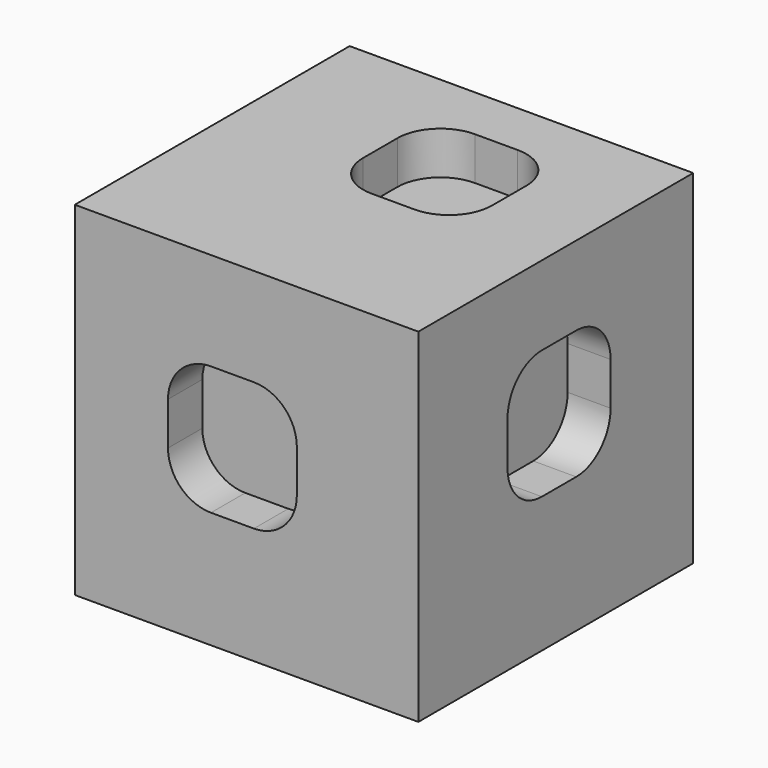
from build123d import *

# Parameters (mm, degrees)
F0_W     = 50.8
F0_H     = 50.8
F1_DEPTH = 50.8
F3_DEPTH = 6.35
F5_DEPTH = 6.35
F7_DEPTH = 6.35


with BuildPart() as f1:
    # F0 (on Top) → F1 (new body)
    with BuildSketch(Plane.XY):
        with Locations((25.4, 25.4)):
            Rectangle(F0_W, F0_H)
    extrude(amount=F1_DEPTH)

    # F2 (on face) → F3 (cut)
    with BuildSketch(Plane.XY.offset(50.8)):
        with BuildLine():
            ThreePointArc((18.691622, 29.928316), (20.551494, 25.438188), (25.041622, 23.578316))
            Line((25.041622, 23.578316), (31.391622, 23.578316))
            ThreePointArc((31.391622, 23.578316), (35.88175, 25.438188), (37.741622, 29.928316))
            Line((37.741622, 29.928316), (37.741622, 36.278316))
            ThreePointArc((37.741622, 36.278316), (35.88175, 40.768444), (31.391622, 42.628316))
            Line((31.391622, 42.628316), (25.041622, 42.628316))
            ThreePointArc((25.041622, 42.628316), (20.551494, 40.768444), (18.691622, 36.278316))
            Line((18.691622, 36.278316), (18.691622, 29.928316))
        make_face()
    extrude(amount=-F3_DEPTH, mode=Mode.SUBTRACT)

    # F4 (on face) → F5 (cut)
    with BuildSketch(Plane.XZ):
        with BuildLine():
            ThreePointArc((13.781983, 23.608483), (15.641855, 19.118355), (20.131983, 17.258483))
            Line((20.131983, 17.258483), (26.481983, 17.258483))
            ThreePointArc((26.481983, 17.258483), (30.972111, 19.118355), (32.831983, 23.608483))
            Line((32.831983, 23.608483), (32.831983, 29.958483))
            ThreePointArc((32.831983, 29.958483), (30.972111, 34.448611), (26.481983, 36.308483))
            Line((26.481983, 36.308483), (20.131983, 36.308483))
            ThreePointArc((20.131983, 36.308483), (15.641855, 34.448611), (13.781983, 29.958483))
            Line((13.781983, 29.958483), (13.781983, 23.608483))
        make_face()
    extrude(amount=-F5_DEPTH, mode=Mode.SUBTRACT)

    # F6 (on face) → F7 (cut)
    with BuildSketch(Plane.YZ.offset(50.8)):
        with BuildLine():
            Line((22.827603, 20.040363), (29.177603, 20.040363))
            ThreePointArc((29.177603, 20.040363), (33.667732, 21.900235), (35.527603, 26.390363))
            Line((35.527603, 26.390363), (35.527603, 32.740363))
            ThreePointArc((35.527603, 32.740363), (33.667732, 37.230491), (29.177603, 39.090363))
            Line((29.177603, 39.090363), (22.827603, 39.090363))
            ThreePointArc((22.827603, 39.090363), (18.337475, 37.230491), (16.477603, 32.740363))
            Line((16.477603, 32.740363), (16.477603, 26.390363))
            ThreePointArc((16.477603, 26.390363), (18.337475, 21.900235), (22.827603, 20.040363))
        make_face()
    extrude(amount=-F7_DEPTH, mode=Mode.SUBTRACT)


solid = f1.part
